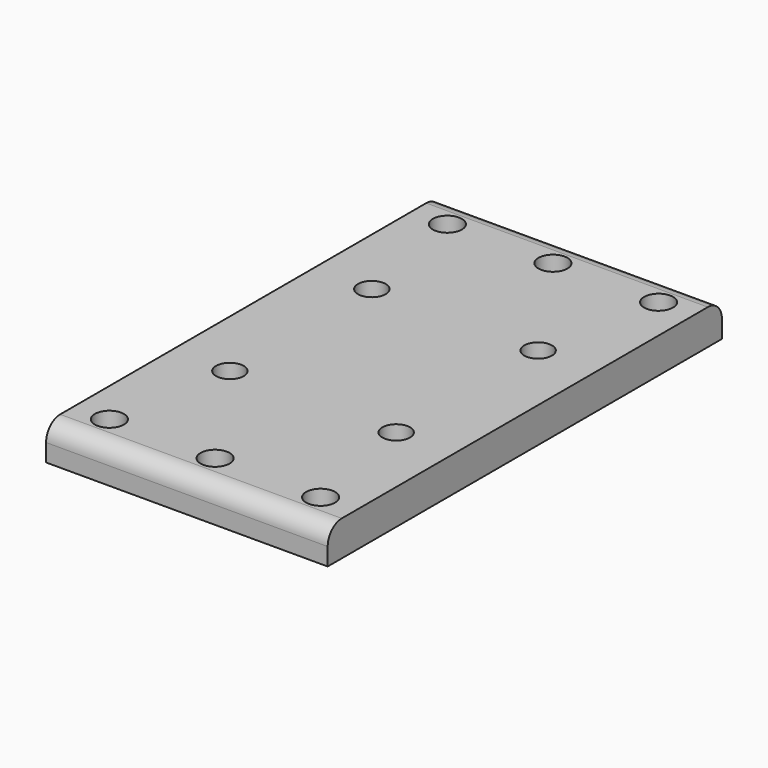
from build123d import *

# Parameters (mm, degrees)
F0_W     = 50.8
F0_H     = 6.35
F1_DEPTH = 88.9
F2_R     = 2.6162
F2_R_2   = 2.5
F3_DEPTH = 6.351
F4_R     = 3.175


with BuildPart() as f1:
    # F0 (on Front) → F1 (new body)
    with BuildSketch(Plane.XZ):
        Rectangle(F0_W, F0_H)
    extrude(amount=F1_DEPTH)

    # F2 (on face) → F3 (cut, through all)
    with BuildSketch(Plane.XY.offset(3.175)):
        with Locations((0, -82.55)):
            Circle(F2_R)
        with Locations((0, -6.35)):
            Circle(F2_R)
        with Locations((-19.05, -82.55)):
            Circle(F2_R)
        with Locations((19.05, -82.55)):
            Circle(F2_R)
        with Locations((19.05, -6.35)):
            Circle(F2_R)
        with Locations((-19.05, -6.35)):
            Circle(F2_R)
        with Locations((-15, -60.45)):
            Circle(F2_R_2)
        with Locations((15, -60.45)):
            Circle(F2_R_2)
        with Locations((15, -28.45)):
            Circle(F2_R_2)
        with Locations((-15, -28.45)):
            Circle(F2_R_2)
    extrude(amount=-F3_DEPTH, mode=Mode.SUBTRACT)

    # F4
    f4_edges = [f1.edges().sort_by_distance(p)[0] for p in [
        (0, 0, 3.175),
        (0, -88.9, 3.175),
    ]]
    fillet(f4_edges, radius=F4_R)


solid = f1.part
